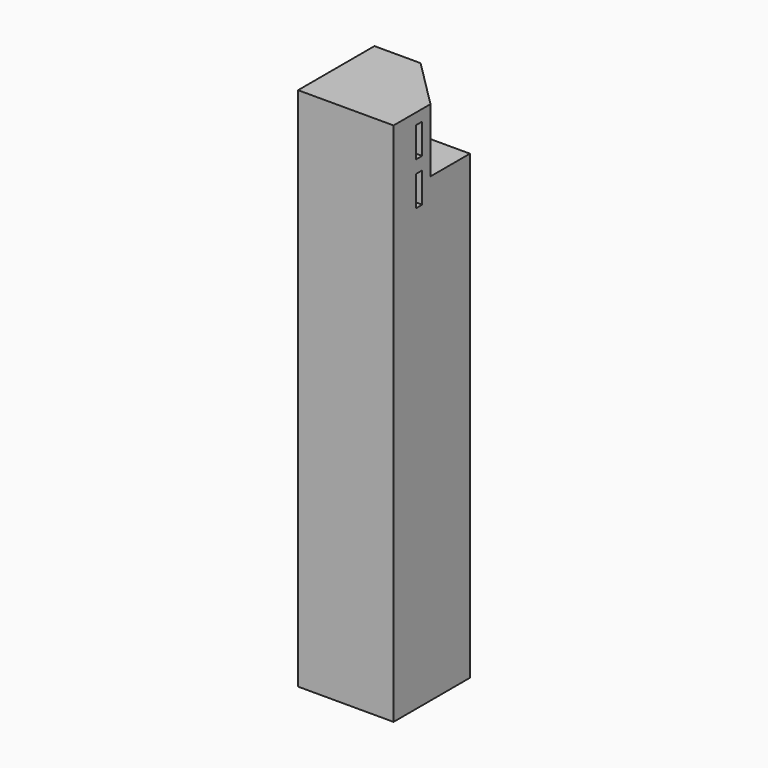
from build123d import *

# Parameters (mm, degrees)
F0_W     = 60
F0_H     = 60
F1_DEPTH = 330
F3_DEPTH = 40
F4_W     = 5
F4_H     = 19
F5_DEPTH = 15
F6_W     = 5
F6_H     = 19
F7_DEPTH = 15


with BuildPart() as f1:
    # F0 (on Top) → F1 (new body)
    with BuildSketch(Plane.XY):
        Rectangle(F0_W, F0_H)
    extrude(amount=-F1_DEPTH)

    # F2 (on face) → F3 (cut)
    with BuildSketch(Plane.XY):
        Polygon((30, 30), (-1, 30), (30, -1), align=None)
    extrude(amount=-F3_DEPTH, mode=Mode.SUBTRACT)

    # F4 (on face) → F5 (cut)
    with BuildSketch(Plane.YZ.offset(30)):
        with Locations((-10, -16.5)):
            Rectangle(F4_W, F4_H)
        with Locations((-10, -43.5)):
            Rectangle(F4_W, F4_H)
    extrude(amount=-F5_DEPTH, mode=Mode.SUBTRACT)

    # F6 (on face) → F7 (cut)
    with BuildSketch(Plane(origin=(0, 30, 0), x_dir=(-1, 0, 0), z_dir=(0, 1, 0))):
        with Locations((10, -16.5)):
            Rectangle(F6_W, F6_H)
        with Locations((10, -43.5)):
            Rectangle(F6_W, F6_H)
    extrude(amount=-F7_DEPTH, mode=Mode.SUBTRACT)


solid = f1.part
